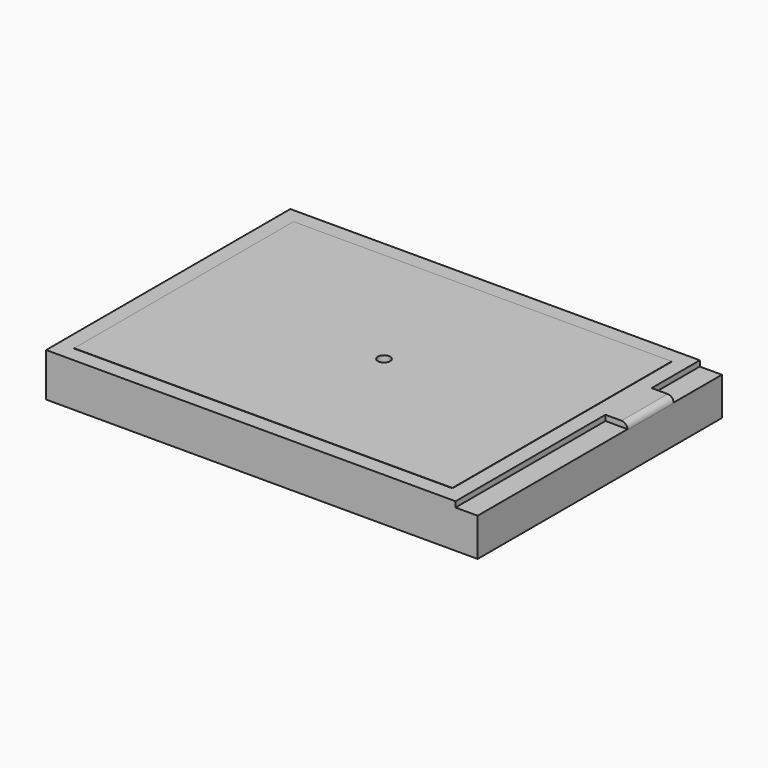
from build123d import *

# Parameters (mm, degrees)
SKETCH_W        = 70.25
SKETCH_H        = 49.7
PAD_DEPTH       = 7.1
SKETCH001_W     = 3.6
SKETCH001_H     = 9.8
SKETCH001_H_2   = 30.5
POCKET_DEPTH    = 0.9
SKETCH002_W     = 51.75
SKETCH002_H     = 5.3
PAD001_DEPTH    = 2.6
FILLET_R        = 1
SKETCH003_W     = 61.57
SKETCH003_H     = 44.62
PAD002_DEPTH    = 0.05
SKETCH004_R     = 1
POCKET001_DEPTH = 9.751


with BuildPart() as part:
    # Sketch → Pad (new body)
    with BuildSketch(Plane.XY):
        Rectangle(SKETCH_W, SKETCH_H)
    extrude(amount=PAD_DEPTH)

    # Sketch001 (on Face6 of Pad) → Pocket (cut)
    with BuildSketch(Plane.XY.offset(7.1)):
        with Locations((33.325, 19.95)):
            Rectangle(SKETCH001_W, SKETCH001_H)
        with Locations((33.325, -9.6)):
            Rectangle(SKETCH001_W, SKETCH001_H_2)
    extrude(amount=-POCKET_DEPTH, mode=Mode.SUBTRACT)

    # Sketch002 (on Face2 of Pocket) → Pad001 (join)
    with BuildSketch(Plane(origin=(0, 0, 0), x_dir=(1, 0, 0), z_dir=(0, 0, -1))):
        with Locations((-0.75, -22.2)):
            Rectangle(SKETCH002_W, SKETCH002_H)
    extrude(amount=PAD001_DEPTH)

    # Fillet
    fillet_edges = [part.edges().sort_by_distance(p)[0] for p in [
        (35.125, 10.35, 7.1),
    ]]
    fillet(fillet_edges, radius=FILLET_R)

    # Sketch003 (on Face8 of Fillet) → Pad002 (join)
    with BuildSketch(Plane.XY.offset(7.1)):
        with Locations((-1.8, 0)):
            Rectangle(SKETCH003_W, SKETCH003_H)
    extrude(amount=PAD002_DEPTH)

    # Sketch004 (on Face23 of Pad002) → Pocket001 (cut, through all)
    with BuildSketch(Plane.XY.offset(7.15)):
        Circle(SKETCH004_R)
    extrude(amount=-POCKET001_DEPTH, mode=Mode.SUBTRACT)


solid = part.part
